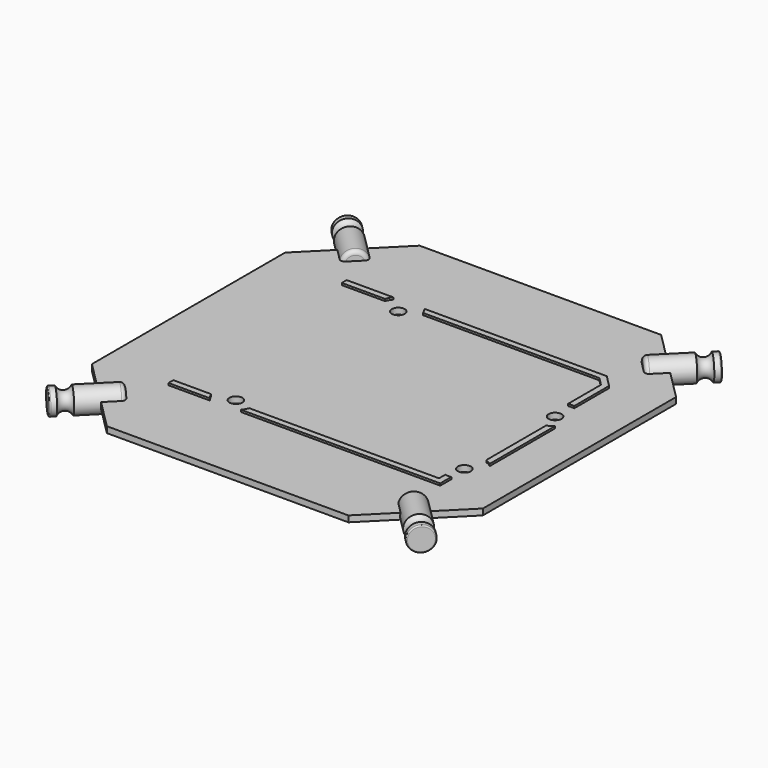
from build123d import *

# Parameters (mm, degrees)
F2_R      = 3
F3_DEPTH  = 15
F6_R      = 0.3
F7_R      = 1
F9_COUNT  = 4
F9_ANGLE  = 270
F11_DEPTH = 0.75
F12_R     = 1.6
F13_DEPTH = 1.5
F15_DEPTH = 0.5
F16_R     = 5
F17_DEPTH = 0.5


with BuildPart() as f3:
    # F2 (on face) → F3 (new body)
    with BuildSketch(Plane(origin=(45.961941, -45.961941, 0), x_dir=(0.707107, 0.707107, 0), z_dir=(0.707107, -0.707107, 0))):
        Circle(F2_R)
    extrude(amount=-F3_DEPTH)

    # F4 (on Top) → F5 (revolve, cut)
    with BuildSketch(Plane.XY):
        with BuildLine():
            ThreePointArc((44.689149, -40.446508), (45.148768, -42.320341), (47.022601, -42.77996))
            Line((47.022601, -42.77996), (44.689149, -40.446508))
        make_face()
    revolve(axis=Axis((40.65864, -40.65864, 0), (0.707107, -0.707107, 0)), mode=Mode.SUBTRACT)

    # F6
    f6_edges = [f3.edges().sort_by_distance(p)[0] for p in [
        (43.84062, -48.083261, 0),
    ]]
    fillet(f6_edges, radius=F6_R)

    # F7
    f7_edges = [f3.edges().sort_by_distance(p)[0] for p in [
        (33.234019, -37.476659, 0),
    ]]
    fillet(f7_edges, radius=F7_R)



with BuildPart() as f9_1:
    # F9: instance of F3
    add(f3.part.rotate(Axis((0, 0, 0), (0, 0, -1)), 1 * F9_ANGLE / (F9_COUNT - 1)))


with BuildPart() as f9_2:
    # F9: instance of F3
    add(f3.part.rotate(Axis((0, 0, 0), (0, 0, -1)), 2 * F9_ANGLE / (F9_COUNT - 1)))


with BuildPart() as f9_3:
    # F9: instance of F3
    add(f3.part.rotate(Axis((0, 0, 0), (0, 0, -1)), 3 * F9_ANGLE / (F9_COUNT - 1)))


with BuildPart() as f3_1:
    add(f3.part)

    add(f9_1.part)  # F11 merges F9_1

    add(f9_2.part)  # F11 merges F9_2

    add(f9_3.part)  # F11 merges F9_3
    # F10 (on Top) → F11 (join, symmetric)
    with BuildSketch(Plane.XY):
        Polygon((29.698485, 48.083261), (-29.698485, 48.083261), (-48.083261, 29.698485), (-48.083261, -29.698485), (-29.698485, -48.083261), (29.698485, -48.083261), (48.083261, -29.698485), (48.083261, 29.698485), align=None)
    extrude(amount=F11_DEPTH, both=True)

    # F12 (on face) → F13 (cut, through all)
    with BuildSketch(Plane.XY.offset(0.75)):
        with Locations((-15.8, 24.15)):
            Circle(F12_R)
        with Locations((35, 8.85)):
            Circle(F12_R)
        with Locations((-17.1, -24.15)):
            Circle(F12_R)
        with Locations((35, -19.05)):
            Circle(F12_R)
    extrude(amount=-F13_DEPTH, mode=Mode.SUBTRACT)

    # F14 (on face) → F15 (join)
    with BuildSketch(Plane.XY.offset(0.75)):
        Polygon((32.87132, 27.4), (-31.1, 27.4), (-31.1, 25.9), (32.25, 25.9), (34.25, 23.9), (34.25, 11.862742), (36.6, 9.512742), (36.6, -19.712742), (34.25, -22.062742), (34.25, -25.9), (-31.1, -25.9), (-31.1, -27.4), (35.75, -27.4), (35.75, -22.684062), (38.1, -20.334062), (38.1, 10.134062), (35.75, 12.484062), (35.75, 24.52132), align=None)
    extrude(amount=F15_DEPTH)

    # F16 (on face) → F17 (cut, through all)
    with BuildSketch(Plane.XY.offset(0.75)):
        with Locations((-15.8, 24.15)):
            Circle(F16_R)
        with Locations((35, 8.85)):
            Circle(F16_R)
        with Locations((35, -19.05)):
            Circle(F16_R)
        with Locations((-17.1, -24.15)):
            Circle(F16_R)
    extrude(amount=F17_DEPTH, mode=Mode.SUBTRACT)


solid = f3_1.part
